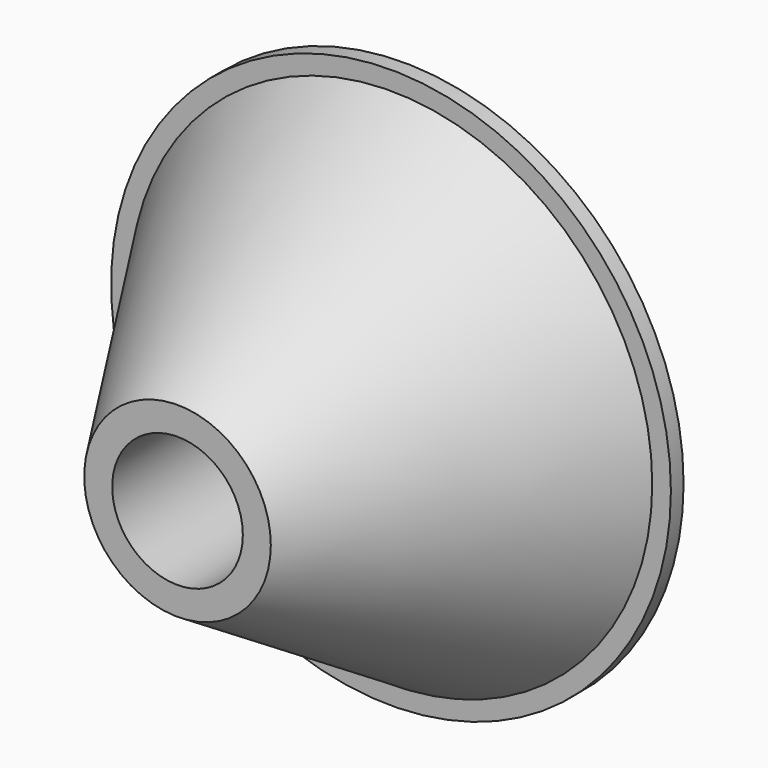
from build123d import *

# Parameters (mm, degrees)
F0_R     = 15
F0_R_2   = 14
F1_DEPTH = 0.85
F4_R     = 14
F3_R     = 5
F6_R     = 3.5
F7_DEPTH = 7


with BuildPart() as f1:
    # F0 (on Front) → F1 (new body)
    with BuildSketch(Plane.XZ):
        Circle(F0_R)
        Circle(F0_R_2, mode=Mode.SUBTRACT)
        Circle(F0_R_2)
    extrude(amount=F1_DEPTH)

    # F4 (on face) → F5 section 0
    with BuildSketch(Plane.XZ.offset(0.85)):
        Circle(F4_R)
    # F3 (on offset) → F5 section 1
    with BuildSketch(Plane.XZ.offset(15.15)):
        Circle(F3_R)
    loft()

    # F6 (on face) → F7 (cut)
    with BuildSketch(Plane.XZ.offset(15.15)):
        Circle(F6_R)
    extrude(amount=-F7_DEPTH, mode=Mode.SUBTRACT)


solid = f1.part
